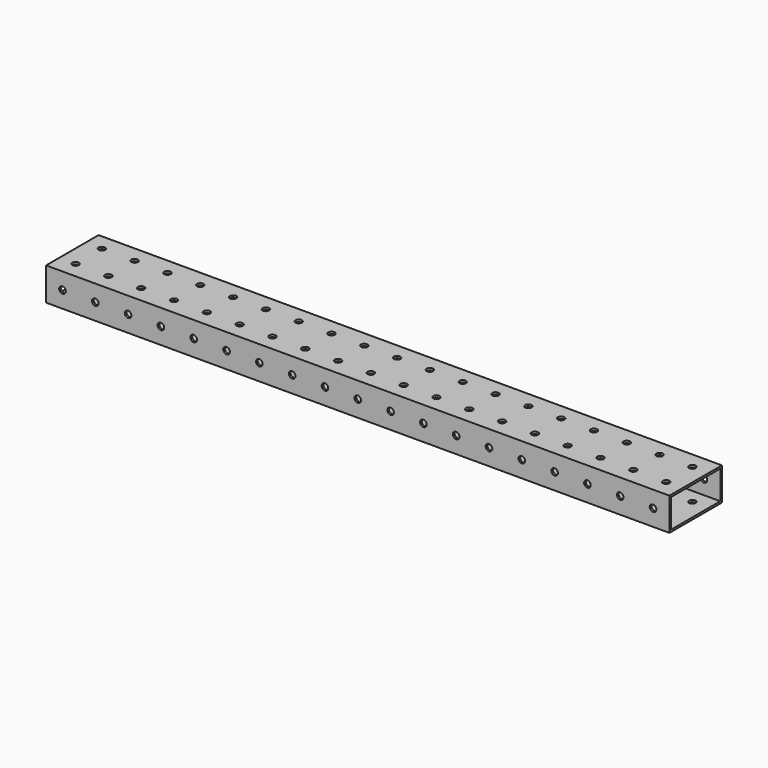
from build123d import *

# Parameters (mm, degrees)
F0_W     = 482.6
F0_H     = 50.8
F1_DEPTH = 25.4
F2_W     = 47.5996
F2_H     = 22.1996
F3_DEPTH = 482.601
F5_D     = 5.1054
F7_D     = 5.1054


with BuildPart() as f1:
    # F0 (on Top) → F1 (new body)
    with BuildSketch(Plane.XY):
        with Locations((28.269336, 18.569565)):
            Rectangle(F0_W, F0_H)
    extrude(amount=F1_DEPTH)

    # F2 (on face) → F3 (cut, through all)
    with BuildSketch(Plane.YZ.offset(269.569336)):
        with Locations((18.569565, 12.7)):
            Rectangle(F2_W, F2_H)
    extrude(amount=-F3_DEPTH, mode=Mode.SUBTRACT)

    # F5 (through all)
    with Locations(Plane.XY.offset(25.4)):
        with Locations((2.869336, 5.869565), (-47.930664, 31.269565), (-98.730664, 31.269565), (-22.530664, 5.869565), (-124.130664, 5.869565), (-124.130664, 31.269565), (-149.530664, 5.869565), (2.869336, 31.269565), (-149.530664, 31.269565), (-174.930664, 5.869565), (-174.930664, 31.269565), (-200.330664, 5.869565), (-200.330664, 31.269565), (-73.330664, 31.269565), (-73.330664, 5.869565), (-98.730664, 5.869565), (-22.530664, 31.269565), (-47.930664, 5.869565), (256.869336, 31.269565), (206.069336, 5.869565), (129.869336, 31.269565), (79.069336, 5.869565), (155.269336, 31.269565), (231.469336, 5.869565), (180.669336, 5.869565), (28.269336, 5.869565), (256.869336, 5.869565), (104.469336, 5.869565), (53.669336, 5.869565), (206.069336, 31.269565), (180.669336, 31.269565), (28.269336, 31.269565), (129.869336, 5.869565), (231.469336, 31.269565), (53.669336, 31.269565), (104.469336, 31.269565), (79.069336, 31.269565), (155.269336, 5.869565)):
            Hole(F5_D / 2)

    # F7 (through all)
    with Locations(Plane(origin=(0, 43.969565, 0), x_dir=(-1, 0, 0), z_dir=(0, 1, 0))):
        with Locations((47.930664, 12.7), (22.530664, 12.7), (73.330664, 12.7), (-79.069336, 12.7), (-104.469336, 12.7), (-28.269336, 12.7), (-53.669336, 12.7), (-2.869336, 12.7), (149.530664, 12.7), (98.730664, 12.7), (-231.469336, 12.7), (-256.869336, 12.7), (-180.669336, 12.7), (-206.069336, 12.7), (-155.269336, 12.7), (-129.869336, 12.7), (124.130664, 12.7), (200.330664, 12.7), (174.930664, 12.7)):
            Hole(F7_D / 2)


solid = f1.part
